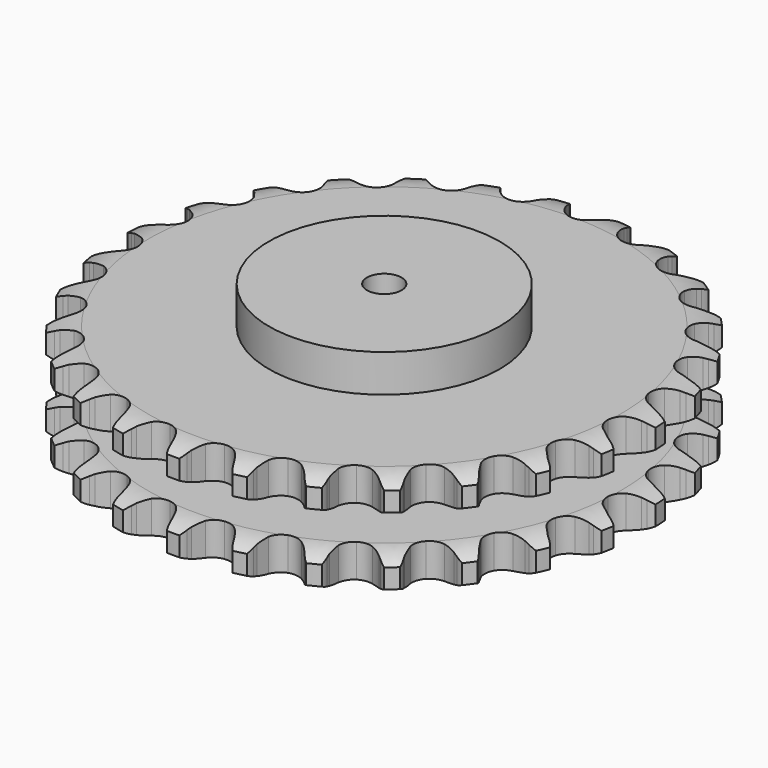
from build123d import *

# Parameters (mm, degrees)
PAD_DEPTH         = 87.4
SKETCH001_R       = 100
PAD001_DEPTH      = 120
SKETCH002_R       = 15
POCKET_DEPTH      = 0.001
POCKET_DEPTH_BACK = 120.001


with BuildPart() as part:
    # Sprocket → Pad (new body)
    with BuildSketch(Plane.XY):
        with BuildLine():
            ThreePointArc((-27.349241, 233.987712), (-21.95658, 229.063344), (-18.298161, 222.743046))
            Line((-18.298161, 222.743046), (-16.875709, 219.093948))
            ThreePointArc((-16.875709, 219.093948), (-14.617409, 214.311678), (-11.718382, 209.888368))
            ThreePointArc((-11.718382, 209.888368), (-6.540751, 205.607595), (0, 204.074145))
            ThreePointArc((0, 204.074145), (6.540751, 205.607595), (11.718382, 209.888368))
            ThreePointArc((11.718382, 209.888368), (14.617409, 214.311678), (16.875709, 219.093948))
            Line((16.875709, 219.093948), (18.298161, 222.743046))
            ThreePointArc((18.298161, 222.743046), (21.95658, 229.063344), (27.349241, 233.987712))
            ThreePointArc((27.349241, 233.987712), (31.460904, 227.952448), (33.563149, 220.958825))
            Line((33.563149, 220.958825), (34.105719, 217.080049))
            ThreePointArc((34.105719, 217.080049), (35.200279, 211.905886), (37.001077, 206.933245))
            ThreePointArc((37.001077, 206.933245), (41.051931, 201.573816), (47.062737, 198.5733))
            ThreePointArc((47.062737, 198.5733), (53.780818, 198.557015), (59.8061, 201.528355))
            Line((59.8061, 201.528355), (66.947364, 209.296436))
            ThreePointArc((66.947364, 209.296436), (68.018734, 210.936414), (69.173014, 212.519132))
            ThreePointArc((69.173014, 212.519132), (74.190381, 217.825376), (80.573319, 221.373374))
            ThreePointArc((80.573319, 221.373374), (83.182324, 214.552576), (83.615062, 207.262657))
            Line((83.615062, 207.262657), (83.2485, 203.363308))
            ThreePointArc((83.2485, 203.363308), (83.120311, 198.076192), (83.725799, 192.822297))
            ThreePointArc((83.725799, 192.822297), (86.431492, 186.673141), (91.588309, 182.367317))
            ThreePointArc((91.588309, 182.367317), (98.121548, 180.802174), (104.669656, 182.303896))
            Line((104.669656, 182.303896), (113.409869, 188.215699))
            ThreePointArc((113.409869, 188.215699), (114.830565, 189.564396), (116.318731, 190.838257))
            ThreePointArc((116.318731, 190.838257), (122.424558, 194.844386), (129.453668, 196.82474))
            ThreePointArc((129.453668, 196.82474), (130.419363, 189.58612), (129.159266, 182.392904))
            Line((129.159266, 182.392904), (127.903332, 178.683199))
            ThreePointArc((127.903332, 178.683199), (126.559306, 173.56816), (125.936841, 168.316249))
            ThreePointArc((125.936841, 168.316249), (127.151509, 161.708869), (131.176332, 156.329865))
            ThreePointArc((131.176332, 156.329865), (137.17252, 153.300242), (143.890444, 153.251387))
            Line((143.890444, 153.251387), (153.758419, 156.988205))
            ThreePointArc((153.758419, 156.988205), (155.45185, 157.972912), (157.193675, 158.869242))
            ThreePointArc((157.193675, 158.869242), (164.058796, 161.359284), (171.355136, 161.665233))
            ThreePointArc((171.355136, 161.665233), (170.62546, 154.399026), (167.740459, 147.690304))
            Line((167.740459, 147.690304), (165.662863, 144.370232))
            ThreePointArc((165.662863, 144.370232), (163.175456, 139.703023), (161.358595, 134.736228))
            ThreePointArc((161.358595, 134.736228), (161.016755, 128.02683), (163.692605, 121.864629))
            ThreePointArc((163.692605, 121.864629), (168.828486, 117.533854), (175.35406, 115.937056))
            Line((175.35406, 115.937056), (185.817812, 117.297436))
            ThreePointArc((185.817812, 117.297436), (187.692686, 117.865068), (189.594268, 118.335544))
            ThreePointArc((189.594268, 118.335544), (196.848581, 119.175261), (204.018805, 117.790312))
            ThreePointArc((204.018805, 117.790312), (201.633095, 110.888242), (197.278721, 105.02568))
            Line((197.278721, 105.02568), (194.491465, 102.274228))
            ThreePointArc((194.491465, 102.274228), (190.994775, 98.30646), (188.081466, 93.892543))
            ThreePointArc((188.081466, 93.892543), (186.201546, 87.442831), (187.384167, 80.82964))
            ThreePointArc((187.384167, 80.82964), (191.382864, 75.431186), (197.364294, 72.372528))
            Line((197.364294, 72.372528), (207.859719, 71.283132))
            ThreePointArc((207.859719, 71.283132), (209.814961, 71.403088), (211.773784, 71.422347))
            ThreePointArc((211.773784, 71.422347), (219.026209, 70.56647), (225.683767, 67.565285))
            ThreePointArc((225.683767, 67.565285), (221.770637, 61.399443), (216.181637, 56.699095))
            Line((216.181637, 56.699095), (212.834983, 54.664594))
            ThreePointArc((212.834983, 54.664594), (208.517516, 51.61017), (204.664816, 47.987086))
            ThreePointArc((204.664816, 47.987086), (201.348164, 42.144766), (200.9738, 35.437103))
            ThreePointArc((200.9738, 35.437103), (203.619743, 29.262002), (208.734568, 24.906379))
            Line((208.734568, 24.906379), (218.695855, 21.425936))
            ThreePointArc((218.695855, 21.425936), (220.626057, 21.091748), (222.536521, 20.658753))
            ThreePointArc((222.536521, 20.658753), (229.396077, 18.153422), (235.182059, 13.697795))
            ThreePointArc((235.182059, 13.697795), (229.952467, 8.600584), (223.430144, 5.315848))
            Line((223.430144, 5.315848), (219.704511, 4.107978))
            ThreePointArc((219.704511, 4.107978), (214.799023, 2.131563), (210.214633, -0.505367))
            ThreePointArc((210.214633, -0.505367), (205.64005, -5.425334), (203.728884, -11.865856))
            ThreePointArc((203.728884, -11.865856), (204.879429, -18.484703), (208.851907, -23.90248))
            Line((208.851907, -23.90248), (217.742041, -29.586338))
            ThreePointArc((217.742041, -29.586338), (219.543145, -30.356653), (221.302257, -31.21856))
            ThreePointArc((221.302257, -31.21856), (227.399143, -35.238282), (232.001625, -40.908146))
            ThreePointArc((232.001625, -40.908146), (225.737499, -44.661934), (218.633474, -46.353979))
            Line((218.633474, -46.353979), (214.729713, -46.6701))
            ThreePointArc((214.729713, -46.6701), (209.50066, -47.461957), (204.431725, -48.970575))
            ThreePointArc((204.431725, -48.970575), (198.845828, -52.702952), (195.50089, -58.529124))
            ThreePointArc((195.50089, -58.529124), (195.094011, -65.234893), (197.709985, -71.42275))
            Line((197.709985, -71.42275), (205.049697, -79.003605))
            ThreePointArc((205.049697, -79.003605), (206.624605, -80.168519), (208.137531, -81.412873))
            ThreePointArc((208.137531, -81.412873), (213.143063, -86.730281), (216.313923, -93.308718))
            ThreePointArc((216.313923, -93.308718), (209.352965, -95.516715), (202.050217, -95.524851))
            Line((202.050217, -95.524851), (198.17878, -94.932181))
            ThreePointArc((198.17878, -94.932181), (192.908062, -94.496791), (187.62785, -94.795767))
            ThreePointArc((187.62785, -94.795767), (181.331776, -97.139341), (176.733394, -102.037072))
            ThreePointArc((176.733394, -102.037072), (174.791025, -108.468254), (175.909468, -115.092601))
            Line((175.909468, -115.092601), (181.303071, -124.161767))
            ThreePointArc((181.303071, -124.161767), (182.566879, -125.658479), (183.752056, -127.218196))
            ThreePointArc((183.752056, -127.218196), (187.396385, -133.546628), (188.964682, -140.678994))
            ThreePointArc((188.964682, -140.678994), (181.682158, -141.222166), (174.574381, -139.545953))
            Line((174.574381, -139.545953), (170.943978, -138.076444))
            ThreePointArc((170.943978, -138.076444), (165.915741, -136.437279), (160.708908, -135.510495))
            ThreePointArc((160.708908, -135.510495), (154.04208, -136.338923), (148.438154, -140.044175))
            ThreePointArc((148.438154, -140.044175), (145.06501, -145.854062), (144.625625, -152.55778))
            Line((144.625625, -152.55778), (147.782349, -162.626336))
            ThreePointArc((147.782349, -162.626336), (148.666926, -164.374159), (149.460461, -166.165153))
            ThreePointArc((149.460461, -166.165153), (151.547119, -173.163442), (151.428306, -180.465228))
            ThreePointArc((151.428306, -180.465228), (144.216819, -179.314294), (137.687195, -176.044096))
            Line((137.687195, -176.044096), (134.493541, -173.77697))
            ThreePointArc((134.493541, -173.77697), (129.978858, -171.022397), (125.126108, -168.919817))
            ThreePointArc((125.126108, -168.919817), (118.447937, -168.188438), (112.140575, -170.501461))
            ThreePointArc((112.140575, -170.501461), (107.518502, -175.376841), (105.544977, -181.798529))
            Line((105.544977, -181.798529), (106.294642, -192.323677))
            ThreePointArc((106.294642, -192.323677), (106.7523, -194.228384), (107.111413, -196.154104))
            ThreePointArc((107.111413, -196.154104), (107.527909, -203.44497), (105.728391, -210.522535))
            ThreePointArc((105.728391, -210.522535), (98.976714, -207.739541), (93.377256, -203.051657))
            Line((93.377256, -203.051657), (90.792523, -200.109134))
            ThreePointArc((90.792523, -200.109134), (87.034782, -196.387654), (82.797727, -193.222628))
            ThreePointArc((82.797727, -193.222628), (76.468234, -190.970871), (69.797468, -191.766968))
            ThreePointArc((69.797468, -191.766968), (64.175644, -195.445008), (60.774372, -201.238473))
            Line((60.774372, -201.238473), (59.076564, -211.652799))
            ThreePointArc((59.076564, -211.652799), (59.08263, -213.611708), (58.987961, -215.568337))
            ThreePointArc((58.987961, -215.568337), (57.711841, -222.758727), (54.328631, -229.230518))
            ThreePointArc((54.328631, -229.230518), (48.400749, -224.965496), (44.033325, -219.112651))
            Line((44.033325, -219.112651), (42.196857, -215.653363))
            ThreePointArc((42.196857, -215.653363), (39.398639, -211.165601), (36.005699, -207.108757))
            ThreePointArc((36.005699, -207.108757), (30.366109, -203.458015), (23.691562, -202.694268))
            ThreePointArc((23.691562, -202.694268), (17.373061, -204.976685), (12.727406, -209.829599))
            Line((12.727406, -209.829599), (8.673653, -219.571664))
            ThreePointArc((8.673653, -219.571664), (8.2278, -221.479169), (7.684454, -223.361225))
            ThreePointArc((7.684454, -223.361225), (4.784513, -230.063503), (0, -235.580624))
            ThreePointArc((0, -235.580624), (-4.784513, -230.063503), (-7.684454, -223.361225))
            Line((-7.684454, -223.361225), (-8.673653, -219.571664))
            ThreePointArc((-8.673653, -219.571664), (-10.361496, -214.559557), (-12.727406, -209.829599))
            ThreePointArc((-12.727406, -209.829599), (-17.373061, -204.976685), (-23.691562, -202.694268))
            ThreePointArc((-23.691562, -202.694268), (-30.366109, -203.458015), (-36.005699, -207.108757))
            Line((-36.005699, -207.108757), (-42.196857, -215.653363))
            ThreePointArc((-42.196857, -215.653363), (-43.070593, -217.40663), (-44.033325, -219.112651))
            ThreePointArc((-44.033325, -219.112651), (-48.400749, -224.965496), (-54.328631, -229.230518))
            ThreePointArc((-54.328631, -229.230518), (-57.711841, -222.758727), (-58.987961, -215.568337))
            Line((-58.987961, -215.568337), (-59.076564, -211.652799))
            ThreePointArc((-59.076564, -211.652799), (-59.563039, -206.386551), (-60.774372, -201.238473))
            ThreePointArc((-60.774372, -201.238473), (-64.175644, -195.445008), (-69.797468, -191.766968))
            ThreePointArc((-69.797468, -191.766968), (-76.468234, -190.970871), (-82.797727, -193.222628))
            Line((-82.797727, -193.222628), (-90.792523, -200.109134))
            ThreePointArc((-90.792523, -200.109134), (-92.047039, -201.613644), (-93.377256, -203.051657))
            ThreePointArc((-93.377256, -203.051657), (-98.976714, -207.739541), (-105.728391, -210.522535))
            ThreePointArc((-105.728391, -210.522535), (-107.527909, -203.44497), (-107.111413, -196.154104))
            Line((-107.111413, -196.154104), (-106.294642, -192.323677))
            ThreePointArc((-106.294642, -192.323677), (-105.553524, -187.087192), (-105.544977, -181.798529))
            ThreePointArc((-105.544977, -181.798529), (-107.518502, -175.376841), (-112.140575, -170.501461))
            ThreePointArc((-112.140575, -170.501461), (-118.447937, -168.188438), (-125.126108, -168.919817))
            Line((-125.126108, -168.919817), (-134.493541, -173.77697))
            ThreePointArc((-134.493541, -173.77697), (-136.061205, -174.951614), (-137.687195, -176.044096))
            ThreePointArc((-137.687195, -176.044096), (-144.216819, -179.314294), (-151.428306, -180.465228))
            ThreePointArc((-151.428306, -180.465228), (-151.547119, -173.163442), (-149.460461, -166.165153))
            Line((-149.460461, -166.165153), (-147.782349, -162.626336))
            ThreePointArc((-147.782349, -162.626336), (-145.853591, -157.701915), (-144.625625, -152.55778))
            ThreePointArc((-144.625625, -152.55778), (-145.06501, -145.854062), (-148.438154, -140.044175))
            ThreePointArc((-148.438154, -140.044175), (-154.04208, -136.338923), (-160.708908, -135.510495))
            Line((-160.708908, -135.510495), (-170.943978, -138.076444))
            ThreePointArc((-170.943978, -138.076444), (-172.740276, -138.857898), (-174.574381, -139.545953))
            ThreePointArc((-174.574381, -139.545953), (-181.682158, -141.222166), (-188.964682, -140.678994))
            ThreePointArc((-188.964682, -140.678994), (-187.396385, -133.546628), (-183.752056, -127.218196))
            Line((-183.752056, -127.218196), (-181.303071, -124.161767))
            ThreePointArc((-181.303071, -124.161767), (-178.290653, -119.814887), (-175.909468, -115.092601))
            ThreePointArc((-175.909468, -115.092601), (-174.791025, -108.468254), (-176.733394, -102.037072))
            ThreePointArc((-176.733394, -102.037072), (-181.331776, -97.139341), (-187.62785, -94.795767))
            Line((-187.62785, -94.795767), (-198.17878, -94.932181))
            ThreePointArc((-198.17878, -94.932181), (-200.106875, -95.278316), (-202.050217, -95.524851))
            ThreePointArc((-202.050217, -95.524851), (-209.352965, -95.516715), (-216.313923, -93.308718))
            ThreePointArc((-216.313923, -93.308718), (-213.143063, -86.730281), (-208.137531, -81.412873))
            Line((-208.137531, -81.412873), (-205.049697, -79.003605))
            ThreePointArc((-205.049697, -79.003605), (-201.11602, -75.468607), (-197.709985, -71.42275))
            ThreePointArc((-197.709985, -71.42275), (-195.094011, -65.234893), (-195.50089, -58.529124))
            ThreePointArc((-195.50089, -58.529124), (-198.845828, -52.702952), (-204.431725, -48.970575))
            Line((-204.431725, -48.970575), (-214.729713, -46.6701))
            ThreePointArc((-214.729713, -46.6701), (-216.68566, -46.562255), (-218.633474, -46.353979))
            ThreePointArc((-218.633474, -46.353979), (-225.737499, -44.661934), (-232.001625, -40.908146))
            ThreePointArc((-232.001625, -40.908146), (-227.399143, -35.238282), (-221.302257, -31.21856))
            Line((-221.302257, -31.21856), (-217.742041, -29.586338))
            ThreePointArc((-217.742041, -29.586338), (-213.09917, -27.053795), (-208.851907, -23.90248))
            ThreePointArc((-208.851907, -23.90248), (-204.879429, -18.484703), (-203.728884, -11.865856))
            ThreePointArc((-203.728884, -11.865856), (-205.64005, -5.425334), (-210.214633, -0.505367))
            Line((-210.214633, -0.505367), (-219.704511, 4.107978))
            ThreePointArc((-219.704511, 4.107978), (-221.582865, 4.663988), (-223.430144, 5.315848))
            ThreePointArc((-223.430144, 5.315848), (-229.952467, 8.600584), (-235.182059, 13.697795))
            ThreePointArc((-235.182059, 13.697795), (-229.396077, 18.153422), (-222.536521, 20.658753))
            Line((-222.536521, 20.658753), (-218.695855, 21.425936))
            ThreePointArc((-218.695855, 21.425936), (-213.594089, 22.819494), (-208.734568, 24.906379))
            ThreePointArc((-208.734568, 24.906379), (-203.619743, 29.262002), (-200.9738, 35.437103))
            ThreePointArc((-200.9738, 35.437103), (-201.348164, 42.144766), (-204.664816, 47.987086))
            Line((-204.664816, 47.987086), (-212.834983, 54.664594))
            ThreePointArc((-212.834983, 54.664594), (-214.53448, 55.638795), (-216.181637, 56.699095))
            ThreePointArc((-216.181637, 56.699095), (-221.770637, 61.399443), (-225.683767, 67.565285))
            ThreePointArc((-225.683767, 67.565285), (-219.026209, 70.56647), (-211.773784, 71.422347))
            Line((-211.773784, 71.422347), (-207.859719, 71.283132))
            ThreePointArc((-207.859719, 71.283132), (-202.574095, 71.462579), (-197.364294, 72.372528))
            ThreePointArc((-197.364294, 72.372528), (-191.382864, 75.431186), (-187.384167, 80.82964))
            ThreePointArc((-187.384167, 80.82964), (-186.201546, 87.442831), (-188.081466, 93.892543))
            Line((-188.081466, 93.892543), (-194.491465, 102.274228))
            ThreePointArc((-194.491465, 102.274228), (-195.920486, 103.614101), (-197.278721, 105.02568))
            ThreePointArc((-197.278721, 105.02568), (-201.633095, 110.888242), (-204.018805, 117.790312))
            ThreePointArc((-204.018805, 117.790312), (-196.848581, 119.175261), (-189.594268, 118.335544))
            Line((-189.594268, 118.335544), (-185.817812, 117.297436))
            ThreePointArc((-185.817812, 117.297436), (-180.633279, 116.253097), (-175.35406, 115.937056))
            ThreePointArc((-175.35406, 115.937056), (-168.828486, 117.533854), (-163.692605, 121.864629))
            ThreePointArc((-163.692605, 121.864629), (-161.016755, 128.02683), (-161.358595, 134.736228))
            Line((-161.358595, 134.736228), (-165.662863, 144.370232))
            ThreePointArc((-165.662863, 144.370232), (-166.744368, 146.003543), (-167.740459, 147.690304))
            ThreePointArc((-167.740459, 147.690304), (-170.62546, 154.399026), (-171.355136, 161.665233))
            ThreePointArc((-171.355136, 161.665233), (-164.058796, 161.359284), (-157.193675, 158.869242))
            Line((-157.193675, 158.869242), (-153.758419, 156.988205))
            ThreePointArc((-153.758419, 156.988205), (-148.954476, 154.77638), (-143.890444, 153.251387))
            ThreePointArc((-143.890444, 153.251387), (-137.17252, 153.300242), (-131.176332, 156.329865))
            ThreePointArc((-131.176332, 156.329865), (-127.151509, 161.708869), (-125.936841, 168.316249))
            Line((-125.936841, 168.316249), (-127.903332, 178.683199))
            ThreePointArc((-127.903332, 178.683199), (-128.579018, 180.521896), (-129.159266, 182.392904))
            ThreePointArc((-129.159266, 182.392904), (-130.419363, 189.58612), (-129.453668, 196.82474))
            ThreePointArc((-129.453668, 196.82474), (-122.424558, 194.844386), (-116.318731, 190.838257))
            Line((-116.318731, 190.838257), (-113.409869, 188.215699))
            ThreePointArc((-113.409869, 188.215699), (-109.245499, 184.955629), (-104.669656, 182.303896))
            ThreePointArc((-104.669656, 182.303896), (-98.121548, 180.802174), (-91.588309, 182.367317))
            ThreePointArc((-91.588309, 182.367317), (-86.431492, 186.673141), (-83.725799, 192.822297))
            Line((-83.725799, 192.822297), (-83.2485, 203.363308))
            ThreePointArc((-83.2485, 203.363308), (-83.48194, 205.308267), (-83.615062, 207.262657))
            ThreePointArc((-83.615062, 207.262657), (-83.182324, 214.552576), (-80.573319, 221.373374))
            ThreePointArc((-80.573319, 221.373374), (-74.190381, 217.825376), (-69.173014, 212.519132))
            Line((-69.173014, 212.519132), (-66.947364, 209.296436))
            ThreePointArc((-66.947364, 209.296436), (-63.647069, 205.163872), (-59.8061, 201.528355))
            ThreePointArc((-59.8061, 201.528355), (-53.780818, 198.557015), (-47.062737, 198.5733))
            ThreePointArc((-47.062737, 198.5733), (-41.051931, 201.573816), (-37.001077, 206.933245))
            Line((-37.001077, 206.933245), (-34.105719, 217.080049))
            ThreePointArc((-34.105719, 217.080049), (-33.884329, 219.026416), (-33.563149, 220.958825))
            ThreePointArc((-33.563149, 220.958825), (-31.460904, 227.952448), (-27.349241, 233.987712))
        make_face()
    extrude(amount=PAD_DEPTH)

    # Sketch → Groove (revolve, cut)
    with BuildSketch(Plane.XZ):
        with BuildLine():
            ThreePointArc((205.05, 0), (217.419317, 1.522732), (229.05, 6))
            Line((229.05, 6), (229.05, 22.8))
            ThreePointArc((229.05, 22.8), (217.419317, 27.277268), (205.05, 28.8))
            Line((100, 28.8), (205.05, 28.8))
            Line((100, 58.6), (100, 28.8))
            Line((205.05, 58.6), (100, 58.6))
            ThreePointArc((205.05, 58.6), (217.419317, 60.122732), (229.05, 64.6))
            Line((229.05, 64.6), (229.05, 81.4))
            ThreePointArc((229.05, 81.4), (217.419317, 85.877268), (205.05, 87.4))
            Line((205.05, 87.4), (239.05, 87.4))
            Line((239.05, 87.4), (239.05, 0))
            Line((205.05, 0), (239.05, 0))
        make_face()
    revolve(axis=Axis((0, 0, 0), (0, 0, 1)), mode=Mode.SUBTRACT)

    # Sketch001 → Pad001 (join)
    with BuildSketch(Plane.XY):
        Circle(SKETCH001_R)
    extrude(amount=PAD001_DEPTH)

    # Sketch002 → Pocket (cut, two sides)
    with BuildSketch(Plane.XY) as pocket_sk:
        Circle(SKETCH002_R)
    extrude(amount=-POCKET_DEPTH, mode=Mode.SUBTRACT)
    extrude(pocket_sk.sketch, amount=POCKET_DEPTH_BACK, mode=Mode.SUBTRACT)


solid = part.part
